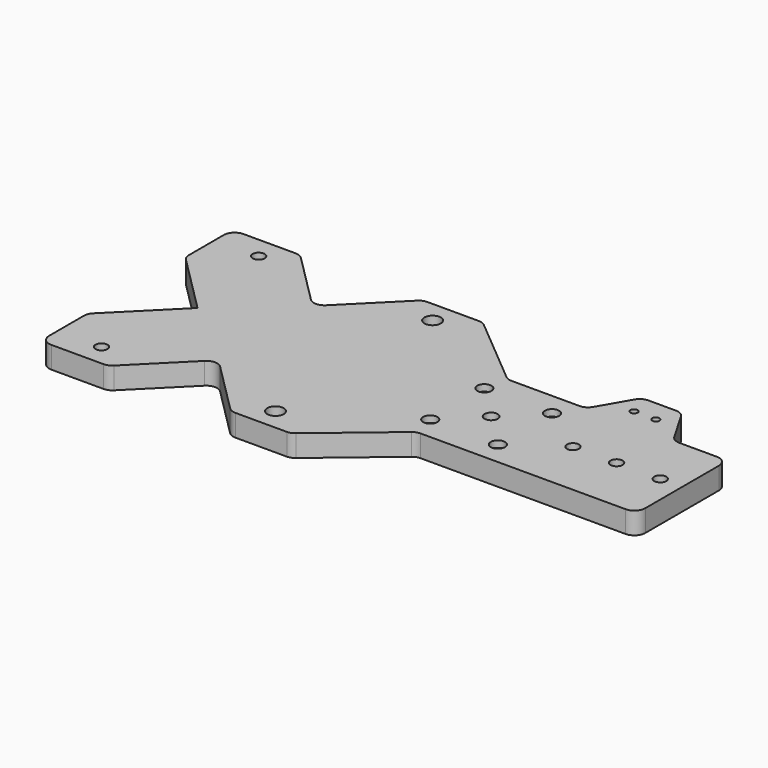
from build123d import *

# Parameters (mm, degrees)
F0_R            = 2.65
F0_R_2          = 3.75
F0_R_3          = 1.6
F0_R_4          = 3
F1_DEPTH        = 10
F2_D            = 5.5
F2_CSINK_D      = 11.2
F2_CSINK_ANGLE  = 90
F3_D            = 5.5
F3_CBORE_D      = 22.1
F3_CBORE_DEPTH  = 2.1
F4_DEPTH        = 10.001
F5_D            = 3.3
F5_CBORE_D      = 6.5
F5_CBORE_DEPTH  = 3
F6_D            = 7.5
F6_CBORE_D      = 11.75
F6_CBORE_DEPTH  = 5
F9_D            = 3.3
F9_CBORE_D      = 6.5
F9_CBORE_DEPTH  = 3
F10_D           = 5.5
F10_CBORE_D     = 9.75
F10_CBORE_DEPTH = 5
F12_DEPTH       = 25
F13_R           = 5


with BuildPart() as f1:
    # F0 (on Top) → F1 (new body)
    with BuildSketch(Plane.XY):
        Polygon((-125, -55), (125, -55), (125, 55), (-125, 55), (-125, 28), (-97, 0), (-125, -28), align=None)
        with Locations((-105, -45)):
            Circle(F0_R, mode=Mode.SUBTRACT)
        with Locations((-25.3, -45)):
            Circle(F0_R_2, mode=Mode.SUBTRACT)
        with Locations((22.0002193564, -15.4997806436)):
            Circle(F0_R_3, mode=Mode.SUBTRACT)
        with Locations((52.9997806436, -15.4997806436)):
            Circle(F0_R_3, mode=Mode.SUBTRACT)
        with Locations((-105, 45)):
            Circle(F0_R, mode=Mode.SUBTRACT)
        with Locations((-25.3, 45)):
            Circle(F0_R_2, mode=Mode.SUBTRACT)
        with Locations((37.5, 0)):
            Circle(F0_R_4, mode=Mode.SUBTRACT)
        with Locations((22.0002193564, 15.4997806436)):
            Circle(F0_R_3, mode=Mode.SUBTRACT)
        with Locations((52.9997806436, 15.4997806436)):
            Circle(F0_R_3, mode=Mode.SUBTRACT)
        with Locations((75, 0)):
            Circle(F0_R, mode=Mode.SUBTRACT)
        with Locations((95, 0)):
            Circle(F0_R, mode=Mode.SUBTRACT)
        with Locations((115, 0)):
            Circle(F0_R, mode=Mode.SUBTRACT)
        with Locations((75, 35)):
            Circle(F0_R_3, mode=Mode.SUBTRACT)
        with Locations((85, 35)):
            Circle(F0_R_3, mode=Mode.SUBTRACT)
        Polygon((-125, 28), (-125, -28), (-97, 0), align=None)
    extrude(amount=F1_DEPTH)

    # F2 (through all)
    with Locations(Plane(origin=(0, 0, 0), x_dir=(1, 0, 0), z_dir=(0, 0, -1))):
        with Locations((75, 0), (95, 0), (115, 0)):
            CounterSinkHole(F2_D / 2, F2_CSINK_D / 2, counter_sink_angle=F2_CSINK_ANGLE)

    # F3 (through all)
    with Locations(Plane(origin=(0, 0, 0), x_dir=(1, 0, 0), z_dir=(0, 0, -1))):
        with Locations((37.5, 0)):
            CounterBoreHole(F3_D / 2, F3_CBORE_D / 2, F3_CBORE_DEPTH)

    # F0 (on Top) → F4 (cut, through all)
    with BuildSketch(Plane.XY):
        Polygon((-125, 28), (-125, -28), (-97, 0), align=None)
    extrude(amount=F4_DEPTH, mode=Mode.SUBTRACT)

    # F5 (through all)
    with Locations(Plane(origin=(0, 0, 0), x_dir=(1, 0, 0), z_dir=(0, 0, -1))):
        with Locations((75, -35), (85, -35)):
            CounterBoreHole(F5_D / 2, F5_CBORE_D / 2, F5_CBORE_DEPTH)

    # F6 (through all)
    with Locations(Plane(origin=(0, 0, 0), x_dir=(1, 0, 0), z_dir=(0, 0, -1))):
        with Locations((-25.3, 45), (-25.3, -45)):
            CounterBoreHole(F6_D / 2, F6_CBORE_D / 2, F6_CBORE_DEPTH)

    # F9 (through all)
    with Locations(Plane.XY.offset(10)):
        with Locations((52.9997806436, 15.4997806436), (52.9997806436, -15.4997806436), (22.0002193564, -15.4997806436), (22.0002193564, 15.4997806436)):
            CounterBoreHole(F9_D / 2, F9_CBORE_D / 2, F9_CBORE_DEPTH)

    # F10 (through all)
    with Locations(Plane(origin=(0, 0, 0), x_dir=(1, 0, 0), z_dir=(0, 0, -1))):
        with Locations((-105, 45), (-105, -45)):
            CounterBoreHole(F10_D / 2, F10_CBORE_D / 2, F10_CBORE_DEPTH)

    # F11 (on offset) → F12 (cut)
    with BuildSketch(Plane.XY.offset(10)):
        Polygon((125, 55), (-10.3, 55), (24.1719999404, 26.0745575641), (60, 26.0745575641), (70.8289389059, 44.8308299412), (89.1710610941, 44.8308299412), (100, 26.0745575641), (125, 26.0745575641), align=None)
        Polygon((125, -55), (125, -26.0745575641), (24.1719999404, -26.0745575641), (-10.3, -55), align=None)
        Polygon((-65.8571067812, -26.8935335215), (-93.9635732597, -55), (-37.7506403027, -55), align=None)
        Polygon((-37.7506403027, 55), (-93.9635732597, 55), (-65.8571067812, 26.8935335215), align=None)
    extrude(amount=-F12_DEPTH, mode=Mode.SUBTRACT)

    # F13
    f13_edges = [f1.edges().sort_by_distance(p)[0] for p in [
        (-125, -28, 5),
        (-125, -55, 5),
        (-125, 28, 5),
        (-125, 55, 5),
        (24.172, -26.074558, 5),
        (-10.3, -55, 5),
        (125, -26.074558, 5),
        (125, 26.074558, 5),
        (100, 26.074558, 5),
        (89.171061, 44.83083, 5),
        (70.828939, 44.83083, 5),
        (60, 26.074558, 5),
        (24.172, 26.074558, 5),
        (-10.3, 55, 5),
        (-65.857107, -26.893534, 5),
        (-65.857107, 26.893534, 5),
        (-93.963573, -55, 5),
        (-37.75064, -55, 5),
        (-37.75064, 55, 5),
        (-93.963573, 55, 5),
    ]]
    fillet(f13_edges, radius=F13_R)


solid = f1.part
